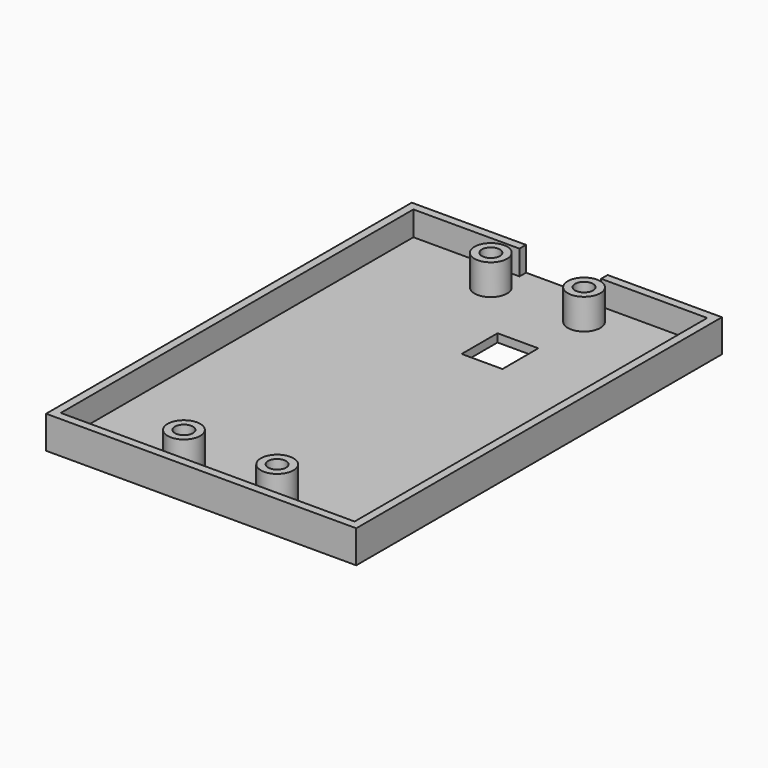
from build123d import *

# Parameters (mm, degrees)
SKETCH034_W     = 38
SKETCH034_H     = 56
PAD020_DEPTH    = 4
SKETCH035_W     = 36
SKETCH035_H     = 54
POCKET008_DEPTH = 3
SKETCH036_W     = 10
SKETCH036_H     = 3
POCKET009_DEPTH = 5
SKETCH037_R     = 2
SKETCH037_R_2   = 1.1
PAD021_DEPTH    = 3.75
SKETCH039_W     = 5
SKETCH039_H     = 5.5
POCKET011_DEPTH = 5


with BuildPart() as part:
    # Sketch034 → Pad020 (new body)
    with BuildSketch(Plane.XY):
        Rectangle(SKETCH034_W, SKETCH034_H)
    extrude(amount=PAD020_DEPTH)

    # Sketch035 (on Face6 of Pad020) → Pocket008 (cut)
    with BuildSketch(Plane.XY.offset(4)):
        Rectangle(SKETCH035_W, SKETCH035_H)
    extrude(amount=-POCKET008_DEPTH, mode=Mode.SUBTRACT)

    # Sketch036 (on Face1 of Pocket008) → Pocket009 (cut)
    with BuildSketch(Plane(origin=(0, 28, 0), x_dir=(-1, 0, 0), z_dir=(0, 1, 0))):
        with Locations((0, 2.5)):
            Rectangle(SKETCH036_W, SKETCH036_H)
    extrude(amount=-POCKET009_DEPTH, mode=Mode.SUBTRACT)

    # Sketch037 (on Face14 of Pocket009) → Pad021 (join)
    with BuildSketch(Plane.XY.offset(1)):
        with Locations((-5.71, 23.5)):
            Circle(SKETCH037_R)
        with Locations((-5.71, 23.5)):
            Circle(SKETCH037_R_2, mode=Mode.SUBTRACT)
        with Locations((5.71, 23.5)):
            Circle(SKETCH037_R)
        with Locations((5.71, 23.5)):
            Circle(SKETCH037_R_2, mode=Mode.SUBTRACT)
    pad021 = extrude(amount=PAD021_DEPTH)

    # Mirrored010: Pad021 across XZ
    add(pad021.mirror(Plane.XZ))

    # Sketch039 (on Face6 of Mirrored010) → Pocket011 (cut)
    with BuildSketch(Plane.XY.offset(1)):
        with Locations((3.21, 13.75)):
            Rectangle(SKETCH039_W, SKETCH039_H)
    extrude(amount=-POCKET011_DEPTH, mode=Mode.SUBTRACT)


solid = part.part
